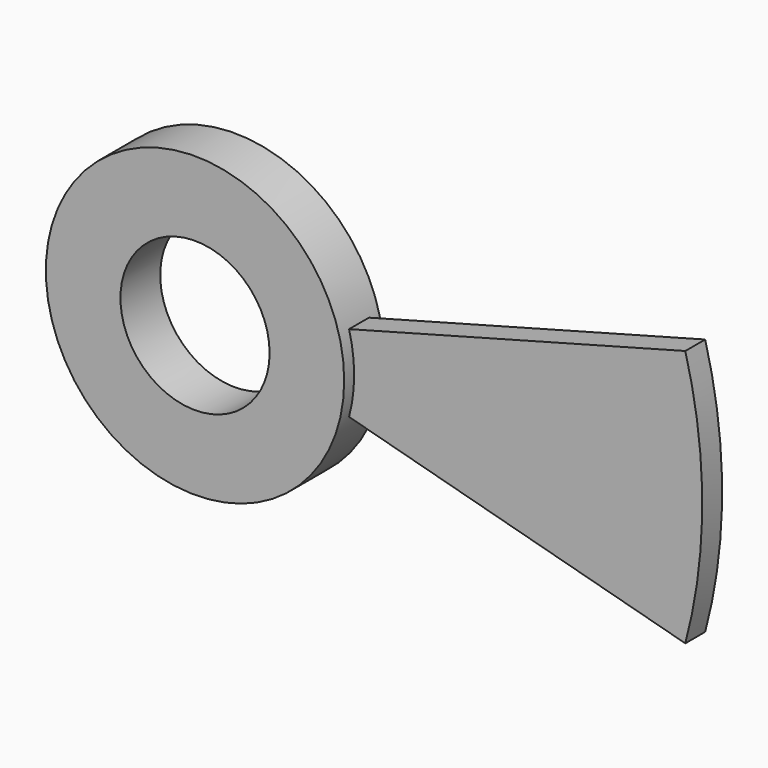
from build123d import *

# Parameters (mm, degrees)
F0_R     = 30
F0_R_2   = 15
F1_DEPTH = 10
F4_DEPTH = 2.5


with BuildPart() as f1:
    # F0 (on Front) → F1 (new body)
    with BuildSketch(Plane.XZ):
        Circle(F0_R)
        Circle(F0_R_2, mode=Mode.SUBTRACT)
    extrude(amount=F1_DEPTH)

    # F3 (on offset) → F4 (join, symmetric)
    with BuildSketch(Plane.XZ.offset(5)):
        with BuildLine():
            Line((28.977775, -7.764571), (96.592583, -25.881905))
            ThreePointArc((96.592583, -25.881905), (100, 0), (96.592583, 25.881905))
            Line((96.592583, 25.881905), (28.977775, 7.764571))
            ThreePointArc((28.977775, 7.764571), (30, 0), (28.977775, -7.764571))
        make_face()
    extrude(amount=F4_DEPTH, both=True)


solid = f1.part
